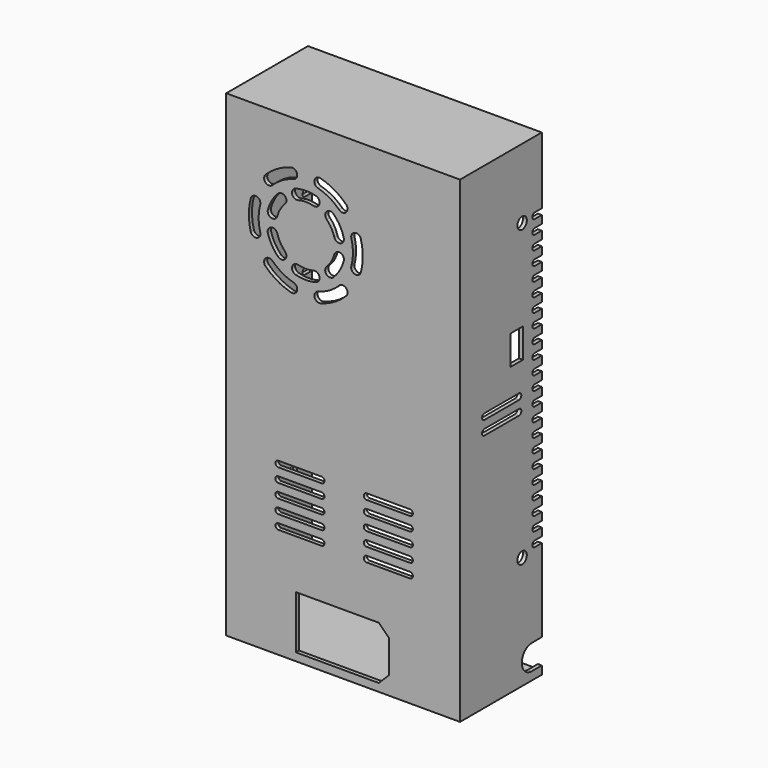
from build123d import *

# Parameters (mm, degrees)
F1_W      = 115
F1_H      = 241
F2_DEPTH  = 2
F3_R      = 3
F3_W      = 8
F3_H      = 15
F3_W_2    = 2
F3_H_2    = 241
F4_DEPTH  = 2
F5_W      = 2
F5_H      = 241
F5_R      = 3
F6_DEPTH  = 2
F7_W      = 115
F7_H      = 50
F8_DEPTH  = 2
F9_W      = 115
F9_H      = 50
F10_DEPTH = 2


with BuildPart() as f2:
    # F1 (on Front) → F2 (new body)
    with BuildSketch(Plane.XZ):
        Rectangle(F1_W, F1_H)
        Polygon((23.4, -111.25), (18.15, -116.5), (-24.1, -116.5), (-24.1, -89.5), (18.15, -89.5), (23.4, -94.75), align=None, mode=Mode.SUBTRACT)
        with BuildLine():
            Line((-11, -64.5), (-33, -64.5))
            ThreePointArc((-33, -64.5), (-34.5, -63), (-33, -61.5))
            Line((-33, -61.5), (-11, -61.5))
            ThreePointArc((-11, -61.5), (-9.5, -63), (-11, -64.5))
        make_face(mode=Mode.SUBTRACT)
        with BuildLine():
            Line((-11, -57.5), (-33, -57.5))
            ThreePointArc((-33, -57.5), (-34.5, -56), (-33, -54.5))
            Line((-33, -54.5), (-11, -54.5))
            ThreePointArc((-11, -54.5), (-9.5, -56), (-11, -57.5))
        make_face(mode=Mode.SUBTRACT)
        with BuildLine():
            Line((-11, -50.5), (-33, -50.5))
            ThreePointArc((-33, -50.5), (-34.5, -49), (-33, -47.5))
            Line((-33, -47.5), (-11, -47.5))
            ThreePointArc((-11, -47.5), (-9.5, -49), (-11, -50.5))
        make_face(mode=Mode.SUBTRACT)
        with BuildLine():
            Line((-11, -43.5), (-33, -43.5))
            ThreePointArc((-33, -43.5), (-34.5, -42), (-33, -40.5))
            Line((-33, -40.5), (-11, -40.5))
            ThreePointArc((-11, -40.5), (-9.5, -42), (-11, -43.5))
        make_face(mode=Mode.SUBTRACT)
        with BuildLine():
            Line((-11, -36.5), (-33, -36.5))
            ThreePointArc((-33, -36.5), (-34.5, -35), (-33, -33.5))
            Line((-33, -33.5), (-11, -33.5))
            ThreePointArc((-11, -33.5), (-9.5, -35), (-11, -36.5))
        make_face(mode=Mode.SUBTRACT)
        with BuildLine():
            Line((34, -64.5), (12, -64.5))
            ThreePointArc((12, -64.5), (10.5, -63), (12, -61.5))
            Line((12, -61.5), (34, -61.5))
            ThreePointArc((34, -61.5), (35.5, -63), (34, -64.5))
        make_face(mode=Mode.SUBTRACT)
        with BuildLine():
            Line((34, -57.5), (12, -57.5))
            ThreePointArc((12, -57.5), (10.5, -56), (12, -54.5))
            Line((12, -54.5), (34, -54.5))
            ThreePointArc((34, -54.5), (35.5, -56), (34, -57.5))
        make_face(mode=Mode.SUBTRACT)
        with BuildLine():
            Line((34, -50.5), (12, -50.5))
            ThreePointArc((12, -50.5), (10.5, -49), (12, -47.5))
            Line((12, -47.5), (34, -47.5))
            ThreePointArc((34, -47.5), (35.5, -49), (34, -50.5))
        make_face(mode=Mode.SUBTRACT)
        with BuildLine():
            Line((34, -43.5), (12, -43.5))
            ThreePointArc((12, -43.5), (10.5, -42), (12, -40.5))
            Line((12, -40.5), (34, -40.5))
            ThreePointArc((34, -40.5), (35.5, -42), (34, -43.5))
        make_face(mode=Mode.SUBTRACT)
        with BuildLine():
            Line((34, -36.5), (12, -36.5))
            ThreePointArc((12, -36.5), (10.5, -35), (12, -33.5))
            Line((12, -33.5), (34, -33.5))
            ThreePointArc((34, -33.5), (35.5, -35), (34, -36.5))
        make_face(mode=Mode.SUBTRACT)
        with BuildLine():
            ThreePointArc((-25.2116570825, 48.8177801691), (-23.4438901295, 45.7559179906), (-26.505752308, 43.9881510376))
            ThreePointArc((-26.505752308, 43.9881510376), (-33.5, 46.8852632903), (-39.5060966544, 51.4939033456))
            ThreePointArc((-39.5060966544, 51.4939033456), (-39.5060966544, 55.0294372515), (-35.9705627485, 55.0294372515))
            ThreePointArc((-35.9705627485, 55.0294372515), (-31, 51.2153903092), (-25.2116570825, 48.8177801691))
        make_face(mode=Mode.SUBTRACT)
        with BuildLine():
            ThreePointArc((-22.8822856765, 57.5111126057), (-19, 57), (-15.1177143235, 57.5111126057))
            ThreePointArc((-15.1177143235, 57.5111126057), (-12.055852145, 55.7433456527), (-13.8236190979, 52.6814834742))
            ThreePointArc((-13.8236190979, 52.6814834742), (-19, 52), (-24.1763809021, 52.6814834742))
            ThreePointArc((-24.1763809021, 52.6814834742), (-25.944147855, 55.7433456527), (-22.8822856765, 57.5111126057))
        make_face(mode=Mode.SUBTRACT)
        with BuildLine():
            ThreePointArc((-2.0294372515, 55.0294372515), (1.5060966544, 55.0294372515), (1.5060966544, 51.4939033456))
            ThreePointArc((1.5060966544, 51.4939033456), (-4.5, 46.8852632903), (-11.494247692, 43.9881510376))
            ThreePointArc((-11.494247692, 43.9881510376), (-14.5561098705, 45.7559179906), (-12.7883429175, 48.8177801691))
            ThreePointArc((-12.7883429175, 48.8177801691), (-7, 51.2153903092), (-2.0294372515, 55.0294372515))
        make_face(mode=Mode.SUBTRACT)
        with BuildLine():
            ThreePointArc((-42.1822198309, 65.7883429175), (-43.9499867839, 62.7264807391), (-47.0118489624, 64.494247692))
            ThreePointArc((-47.0118489624, 64.494247692), (-48, 72), (-47.0118489624, 79.505752308))
            ThreePointArc((-47.0118489624, 79.505752308), (-43.9499867839, 81.2735192609), (-42.1822198309, 78.2116570825))
            ThreePointArc((-42.1822198309, 78.2116570825), (-43, 72), (-42.1822198309, 65.7883429175))
        make_face(mode=Mode.SUBTRACT)
        with BuildLine():
            ThreePointArc((-33.4888873943, 68.1177143235), (-31.9903810568, 64.5), (-29.6066017178, 61.3933982822))
            ThreePointArc((-29.6066017178, 61.3933982822), (-29.6066017178, 57.8578643763), (-33.1421356237, 57.8578643763))
            ThreePointArc((-33.1421356237, 57.8578643763), (-36.3205080757, 62), (-38.3185165258, 66.8236190979))
            ThreePointArc((-38.3185165258, 66.8236190979), (-36.5507495728, 69.8854812764), (-33.4888873943, 68.1177143235))
        make_face(mode=Mode.SUBTRACT)
        with BuildLine():
            ThreePointArc((-29.6066017178, 82.6066017178), (-31.9903810568, 79.5), (-33.4888873943, 75.8822856765))
            ThreePointArc((-33.4888873943, 75.8822856765), (-36.5507495728, 74.1145187236), (-38.3185165258, 77.1763809021))
            ThreePointArc((-38.3185165258, 77.1763809021), (-36.3205080757, 82), (-33.1421356237, 86.1421356237))
            ThreePointArc((-33.1421356237, 86.1421356237), (-29.6066017178, 86.1421356237), (-29.6066017178, 82.6066017178))
        make_face(mode=Mode.SUBTRACT)
        with BuildLine():
            ThreePointArc((-35.9705627485, 88.9705627485), (-39.5060966544, 88.9705627485), (-39.5060966544, 92.5060966544))
            ThreePointArc((-39.5060966544, 92.5060966544), (-33.5, 97.1147367097), (-26.505752308, 100.0118489624))
            ThreePointArc((-26.505752308, 100.0118489624), (-23.4438901295, 98.2440820094), (-25.2116570825, 95.1822198309))
            ThreePointArc((-25.2116570825, 95.1822198309), (-31, 92.7846096908), (-35.9705627485, 88.9705627485))
        make_face(mode=Mode.SUBTRACT)
        with BuildLine():
            ThreePointArc((-15.1177143235, 86.4888873943), (-19, 87), (-22.8822856765, 86.4888873943))
            ThreePointArc((-22.8822856765, 86.4888873943), (-25.944147855, 88.2566543473), (-24.1763809021, 91.3185165258))
            ThreePointArc((-24.1763809021, 91.3185165258), (-19, 92), (-13.8236190979, 91.3185165258))
            ThreePointArc((-13.8236190979, 91.3185165258), (-12.055852145, 88.2566543473), (-15.1177143235, 86.4888873943))
        make_face(mode=Mode.SUBTRACT)
        with BuildLine():
            ThreePointArc((-8.3933982822, 61.3933982822), (-6.0096189432, 64.5), (-4.5111126057, 68.1177143235))
            ThreePointArc((-4.5111126057, 68.1177143235), (-1.4492504272, 69.8854812764), (0.3185165258, 66.8236190979))
            ThreePointArc((0.3185165258, 66.8236190979), (-1.6794919243, 62), (-4.8578643763, 57.8578643763))
            ThreePointArc((-4.8578643763, 57.8578643763), (-8.3933982822, 57.8578643763), (-8.3933982822, 61.3933982822))
        make_face(mode=Mode.SUBTRACT)
        with BuildLine():
            ThreePointArc((-4.5111126057, 75.8822856765), (-6.0096189432, 79.5), (-8.3933982822, 82.6066017178))
            ThreePointArc((-8.3933982822, 82.6066017178), (-8.3933982822, 86.1421356237), (-4.8578643763, 86.1421356237))
            ThreePointArc((-4.8578643763, 86.1421356237), (-1.6794919243, 82), (0.3185165258, 77.1763809021))
            ThreePointArc((0.3185165258, 77.1763809021), (-1.4492504272, 74.1145187236), (-4.5111126057, 75.8822856765))
        make_face(mode=Mode.SUBTRACT)
        with BuildLine():
            ThreePointArc((-2.0294372515, 88.9705627485), (-7, 92.7846096908), (-12.7883429175, 95.1822198309))
            ThreePointArc((-12.7883429175, 95.1822198309), (-14.5561098705, 98.2440820094), (-11.494247692, 100.0118489624))
            ThreePointArc((-11.494247692, 100.0118489624), (-4.5, 97.1147367097), (1.5060966544, 92.5060966544))
            ThreePointArc((1.5060966544, 92.5060966544), (1.5060966544, 88.9705627485), (-2.0294372515, 88.9705627485))
        make_face(mode=Mode.SUBTRACT)
        with BuildLine():
            ThreePointArc((4.1822198309, 78.2116570825), (5.9499867839, 81.2735192609), (9.0118489624, 79.505752308))
            ThreePointArc((9.0118489624, 79.505752308), (10, 72), (9.0118489624, 64.494247692))
            ThreePointArc((9.0118489624, 64.494247692), (5.9499867839, 62.7264807391), (4.1822198309, 65.7883429175))
            ThreePointArc((4.1822198309, 65.7883429175), (5, 72), (4.1822198309, 78.2116570825))
        make_face(mode=Mode.SUBTRACT)
    extrude(amount=F2_DEPTH)

    # F3 (on face) → F4 (join)
    with BuildSketch(Plane.YZ.offset(57.5)):
        with BuildLine():
            Line((50, 88.5), (50, 120.5))
            Line((50, 120.5), (0, 120.5))
            Line((0, 120.5), (0, -120.5))
            Line((0, -120.5), (50, -120.5))
            Line((50, -120.5), (50, -116.35))
            Line((50, -116.35), (43.65, -116.35))
            ThreePointArc((43.65, -116.35), (37.3, -110), (43.65, -103.65))
            Line((43.65, -103.65), (50, -103.65))
            Line((50, -103.65), (50, -61.5))
            Line((50, -61.5), (45.5, -61.5))
            ThreePointArc((45.5, -61.5), (44, -60), (45.5, -58.5))
            Line((45.5, -58.5), (50, -58.5))
            Line((50, -58.5), (50, -54.5))
            Line((50, -54.5), (45.5, -54.5))
            ThreePointArc((45.5, -54.5), (44, -53), (45.5, -51.5))
            Line((45.5, -51.5), (50, -51.5))
            Line((50, -51.5), (50, -47.5))
            Line((50, -47.5), (45.5, -47.5))
            ThreePointArc((45.5, -47.5), (44, -46), (45.5, -44.5))
            Line((45.5, -44.5), (50, -44.5))
            Line((50, -44.5), (50, -40.5))
            Line((50, -40.5), (45.5, -40.5))
            ThreePointArc((45.5, -40.5), (44, -39), (45.5, -37.5))
            Line((45.5, -37.5), (50, -37.5))
            Line((50, -37.5), (50, -33.5))
            Line((50, -33.5), (45.5, -33.5))
            ThreePointArc((45.5, -33.5), (44, -32), (45.5, -30.5))
            Line((45.5, -30.5), (50, -30.5))
            Line((50, -30.5), (50, -26.5))
            Line((50, -26.5), (45.5, -26.5))
            ThreePointArc((45.5, -26.5), (44, -25), (45.5, -23.5))
            Line((45.5, -23.5), (50, -23.5))
            Line((50, -23.5), (50, -19.5))
            Line((50, -19.5), (45.5, -19.5))
            ThreePointArc((45.5, -19.5), (44, -18), (45.5, -16.5))
            Line((45.5, -16.5), (50, -16.5))
            Line((50, -16.5), (50, -12.5))
            Line((50, -12.5), (45.5, -12.5))
            ThreePointArc((45.5, -12.5), (44, -11), (45.5, -9.5))
            Line((45.5, -9.5), (50, -9.5))
            Line((50, -9.5), (50, -5.5))
            Line((50, -5.5), (45.5, -5.5))
            ThreePointArc((45.5, -5.5), (44, -4), (45.5, -2.5))
            Line((45.5, -2.5), (50, -2.5))
            Line((50, -2.5), (50, 1.5))
            Line((50, 1.5), (45.5, 1.5))
            ThreePointArc((45.5, 1.5), (44, 3), (45.5, 4.5))
            Line((45.5, 4.5), (50, 4.5))
            Line((50, 4.5), (50, 8.5))
            Line((50, 8.5), (45.5, 8.5))
            ThreePointArc((45.5, 8.5), (44, 10), (45.5, 11.5))
            Line((45.5, 11.5), (50, 11.5))
            Line((50, 11.5), (50, 15.5))
            Line((50, 15.5), (45.5, 15.5))
            ThreePointArc((45.5, 15.5), (44, 17), (45.5, 18.5))
            Line((45.5, 18.5), (50, 18.5))
            Line((50, 18.5), (50, 22.5))
            Line((50, 22.5), (45.5, 22.5))
            ThreePointArc((45.5, 22.5), (44, 24), (45.5, 25.5))
            Line((45.5, 25.5), (50, 25.5))
            Line((50, 25.5), (50, 29.5))
            Line((50, 29.5), (45.5, 29.5))
            ThreePointArc((45.5, 29.5), (44, 31), (45.5, 32.5))
            Line((45.5, 32.5), (50, 32.5))
            Line((50, 32.5), (50, 36.5))
            Line((50, 36.5), (45.5, 36.5))
            ThreePointArc((45.5, 36.5), (44, 38), (45.5, 39.5))
            Line((45.5, 39.5), (50, 39.5))
            Line((50, 39.5), (50, 43.5))
            Line((50, 43.5), (45.5, 43.5))
            ThreePointArc((45.5, 43.5), (44, 45), (45.5, 46.5))
            Line((45.5, 46.5), (50, 46.5))
            Line((50, 46.5), (50, 50.5))
            Line((50, 50.5), (45.5, 50.5))
            ThreePointArc((45.5, 50.5), (44, 52), (45.5, 53.5))
            Line((45.5, 53.5), (50, 53.5))
            Line((50, 53.5), (50, 57.5))
            Line((50, 57.5), (45.5, 57.5))
            ThreePointArc((45.5, 57.5), (44, 59), (45.5, 60.5))
            Line((45.5, 60.5), (50, 60.5))
            Line((50, 60.5), (50, 64.5))
            Line((50, 64.5), (45.5, 64.5))
            ThreePointArc((45.5, 64.5), (44, 66), (45.5, 67.5))
            Line((45.5, 67.5), (50, 67.5))
            Line((50, 67.5), (50, 71.5))
            Line((50, 71.5), (45.5, 71.5))
            ThreePointArc((45.5, 71.5), (44, 73), (45.5, 74.5))
            Line((45.5, 74.5), (50, 74.5))
            Line((50, 74.5), (50, 78.5))
            Line((50, 78.5), (45.5, 78.5))
            ThreePointArc((45.5, 78.5), (44, 80), (45.5, 81.5))
            Line((45.5, 81.5), (50, 81.5))
            Line((50, 81.5), (50, 85.5))
            Line((50, 85.5), (45.5, 85.5))
            ThreePointArc((45.5, 85.5), (44, 87), (45.5, 88.5))
            Line((45.5, 88.5), (50, 88.5))
        make_face()
        with Locations((37.5, -63)):
            Circle(F3_R, mode=Mode.SUBTRACT)
        with BuildLine():
            ThreePointArc((13.5, 1.5), (12, 3), (13.5, 4.5))
            Line((13.5, 4.5), (35.5, 4.5))
            ThreePointArc((35.5, 4.5), (37, 3), (35.5, 1.5))
            Line((35.5, 1.5), (13.5, 1.5))
        make_face(mode=Mode.SUBTRACT)
        with BuildLine():
            Line((35.5, 8.5), (13.5, 8.5))
            ThreePointArc((13.5, 8.5), (12, 10), (13.5, 11.5))
            Line((13.5, 11.5), (35.5, 11.5))
            ThreePointArc((35.5, 11.5), (37, 10), (35.5, 8.5))
        make_face(mode=Mode.SUBTRACT)
        with Locations((34, 33)):
            Rectangle(F3_W, F3_H, mode=Mode.SUBTRACT)
        with Locations((37.5, 87)):
            Circle(F3_R, mode=Mode.SUBTRACT)
        with Locations((-1, 0)):
            Rectangle(F3_W_2, F3_H_2)
    extrude(amount=F4_DEPTH)

    # F5 (on face) → F6 (join)
    with BuildSketch(Plane(origin=(-57.5, 0, 0), x_dir=(0, -1, 0), z_dir=(-1, 0, 0))):
        with Locations((1, 0)):
            Rectangle(F5_W, F5_H)
        with BuildLine():
            Line((0, -120.5), (0, 120.5))
            Line((0, 120.5), (-50, 120.5))
            Line((-50, 120.5), (-50, 88.5))
            Line((-50, 88.5), (-45.5, 88.5))
            ThreePointArc((-45.5, 88.5), (-44, 87), (-45.5, 85.5))
            Line((-45.5, 85.5), (-50, 85.5))
            Line((-50, 85.5), (-50, 81.5))
            Line((-50, 81.5), (-45.5, 81.5))
            ThreePointArc((-45.5, 81.5), (-44, 80), (-45.5, 78.5))
            Line((-45.5, 78.5), (-50, 78.5))
            Line((-50, 78.5), (-50, 74.5))
            Line((-50, 74.5), (-45.5, 74.5))
            ThreePointArc((-45.5, 74.5), (-44, 73), (-45.5, 71.5))
            Line((-45.5, 71.5), (-50, 71.5))
            Line((-50, 71.5), (-50, 67.5))
            Line((-50, 67.5), (-45.5, 67.5))
            ThreePointArc((-45.5, 67.5), (-44, 66), (-45.5, 64.5))
            Line((-45.5, 64.5), (-50, 64.5))
            Line((-50, 64.5), (-50, 60.5))
            Line((-50, 60.5), (-45.5, 60.5))
            ThreePointArc((-45.5, 60.5), (-44, 59), (-45.5, 57.5))
            Line((-45.5, 57.5), (-50, 57.5))
            Line((-50, 57.5), (-50, 53.5))
            Line((-50, 53.5), (-45.5, 53.5))
            ThreePointArc((-45.5, 53.5), (-44, 52), (-45.5, 50.5))
            Line((-45.5, 50.5), (-50, 50.5))
            Line((-50, 50.5), (-50, 46.5))
            Line((-50, 46.5), (-45.5, 46.5))
            ThreePointArc((-45.5, 46.5), (-44, 45), (-45.5, 43.5))
            Line((-45.5, 43.5), (-50, 43.5))
            Line((-50, 43.5), (-50, 39.5))
            Line((-50, 39.5), (-45.5, 39.5))
            ThreePointArc((-45.5, 39.5), (-44, 38), (-45.5, 36.5))
            Line((-45.5, 36.5), (-50, 36.5))
            Line((-50, 36.5), (-50, 32.5))
            Line((-50, 32.5), (-45.5, 32.5))
            ThreePointArc((-45.5, 32.5), (-44, 31), (-45.5, 29.5))
            Line((-45.5, 29.5), (-50, 29.5))
            Line((-50, 29.5), (-50, 25.5))
            Line((-50, 25.5), (-45.5, 25.5))
            ThreePointArc((-45.5, 25.5), (-44, 24), (-45.5, 22.5))
            Line((-45.5, 22.5), (-50, 22.5))
            Line((-50, 22.5), (-50, 18.5))
            Line((-50, 18.5), (-45.5, 18.5))
            ThreePointArc((-45.5, 18.5), (-44, 17), (-45.5, 15.5))
            Line((-45.5, 15.5), (-50, 15.5))
            Line((-50, 15.5), (-50, 11.5))
            Line((-50, 11.5), (-45.5, 11.5))
            ThreePointArc((-45.5, 11.5), (-44, 10), (-45.5, 8.5))
            Line((-45.5, 8.5), (-50, 8.5))
            Line((-50, 8.5), (-50, 4.5))
            Line((-50, 4.5), (-45.5, 4.5))
            ThreePointArc((-45.5, 4.5), (-44, 3), (-45.5, 1.5))
            Line((-45.5, 1.5), (-50, 1.5))
            Line((-50, 1.5), (-50, -2.5))
            Line((-50, -2.5), (-45.5, -2.5))
            ThreePointArc((-45.5, -2.5), (-44, -4), (-45.5, -5.5))
            Line((-45.5, -5.5), (-50, -5.5))
            Line((-50, -5.5), (-50, -9.5))
            Line((-50, -9.5), (-45.5, -9.5))
            ThreePointArc((-45.5, -9.5), (-44, -11), (-45.5, -12.5))
            Line((-45.5, -12.5), (-50, -12.5))
            Line((-50, -12.5), (-50, -16.5))
            Line((-50, -16.5), (-45.5, -16.5))
            ThreePointArc((-45.5, -16.5), (-44, -18), (-45.5, -19.5))
            Line((-45.5, -19.5), (-50, -19.5))
            Line((-50, -19.5), (-50, -23.5))
            Line((-50, -23.5), (-45.5, -23.5))
            ThreePointArc((-45.5, -23.5), (-44, -25), (-45.5, -26.5))
            Line((-45.5, -26.5), (-50, -26.5))
            Line((-50, -26.5), (-50, -30.5))
            Line((-50, -30.5), (-45.5, -30.5))
            ThreePointArc((-45.5, -30.5), (-44, -32), (-45.5, -33.5))
            Line((-45.5, -33.5), (-50, -33.5))
            Line((-50, -33.5), (-50, -37.5))
            Line((-50, -37.5), (-45.5, -37.5))
            ThreePointArc((-45.5, -37.5), (-44, -39), (-45.5, -40.5))
            Line((-45.5, -40.5), (-50, -40.5))
            Line((-50, -40.5), (-50, -44.5))
            Line((-50, -44.5), (-45.5, -44.5))
            ThreePointArc((-45.5, -44.5), (-44, -46), (-45.5, -47.5))
            Line((-45.5, -47.5), (-50, -47.5))
            Line((-50, -47.5), (-50, -51.5))
            Line((-50, -51.5), (-45.5, -51.5))
            ThreePointArc((-45.5, -51.5), (-44, -53), (-45.5, -54.5))
            Line((-45.5, -54.5), (-50, -54.5))
            Line((-50, -54.5), (-50, -58.5))
            Line((-50, -58.5), (-45.5, -58.5))
            ThreePointArc((-45.5, -58.5), (-44, -60), (-45.5, -61.5))
            Line((-45.5, -61.5), (-50, -61.5))
            Line((-50, -61.5), (-50, -103.65))
            Line((-50, -103.65), (-43.65, -103.65))
            ThreePointArc((-43.65, -103.65), (-37.3, -110), (-43.65, -116.35))
            Line((-43.65, -116.35), (-50, -116.35))
            Line((-50, -116.35), (-50, -120.5))
            Line((-50, -120.5), (0, -120.5))
        make_face()
        with Locations((-37.5, -63)):
            Circle(F5_R, mode=Mode.SUBTRACT)
        with Locations((-37.5, 87)):
            Circle(F5_R, mode=Mode.SUBTRACT)
        with BuildLine():
            Line((0, -120.5), (0, 120.5))
            Line((0, 120.5), (-50, 120.5))
            Line((-50, 120.5), (-50, 88.5))
            Line((-50, 88.5), (-45.5, 88.5))
            ThreePointArc((-45.5, 88.5), (-44, 87), (-45.5, 85.5))
            Line((-45.5, 85.5), (-50, 85.5))
            Line((-50, 85.5), (-50, 81.5))
            Line((-50, 81.5), (-45.5, 81.5))
            ThreePointArc((-45.5, 81.5), (-44, 80), (-45.5, 78.5))
            Line((-45.5, 78.5), (-50, 78.5))
            Line((-50, 78.5), (-50, 74.5))
            Line((-50, 74.5), (-45.5, 74.5))
            ThreePointArc((-45.5, 74.5), (-44, 73), (-45.5, 71.5))
            Line((-45.5, 71.5), (-50, 71.5))
            Line((-50, 71.5), (-50, 67.5))
            Line((-50, 67.5), (-45.5, 67.5))
            ThreePointArc((-45.5, 67.5), (-44, 66), (-45.5, 64.5))
            Line((-45.5, 64.5), (-50, 64.5))
            Line((-50, 64.5), (-50, 60.5))
            Line((-50, 60.5), (-45.5, 60.5))
            ThreePointArc((-45.5, 60.5), (-44, 59), (-45.5, 57.5))
            Line((-45.5, 57.5), (-50, 57.5))
            Line((-50, 57.5), (-50, 53.5))
            Line((-50, 53.5), (-45.5, 53.5))
            ThreePointArc((-45.5, 53.5), (-44, 52), (-45.5, 50.5))
            Line((-45.5, 50.5), (-50, 50.5))
            Line((-50, 50.5), (-50, 46.5))
            Line((-50, 46.5), (-45.5, 46.5))
            ThreePointArc((-45.5, 46.5), (-44, 45), (-45.5, 43.5))
            Line((-45.5, 43.5), (-50, 43.5))
            Line((-50, 43.5), (-50, 39.5))
            Line((-50, 39.5), (-45.5, 39.5))
            ThreePointArc((-45.5, 39.5), (-44, 38), (-45.5, 36.5))
            Line((-45.5, 36.5), (-50, 36.5))
            Line((-50, 36.5), (-50, 32.5))
            Line((-50, 32.5), (-45.5, 32.5))
            ThreePointArc((-45.5, 32.5), (-44, 31), (-45.5, 29.5))
            Line((-45.5, 29.5), (-50, 29.5))
            Line((-50, 29.5), (-50, 25.5))
            Line((-50, 25.5), (-45.5, 25.5))
            ThreePointArc((-45.5, 25.5), (-44, 24), (-45.5, 22.5))
            Line((-45.5, 22.5), (-50, 22.5))
            Line((-50, 22.5), (-50, 18.5))
            Line((-50, 18.5), (-45.5, 18.5))
            ThreePointArc((-45.5, 18.5), (-44, 17), (-45.5, 15.5))
            Line((-45.5, 15.5), (-50, 15.5))
            Line((-50, 15.5), (-50, 11.5))
            Line((-50, 11.5), (-45.5, 11.5))
            ThreePointArc((-45.5, 11.5), (-44, 10), (-45.5, 8.5))
            Line((-45.5, 8.5), (-50, 8.5))
            Line((-50, 8.5), (-50, 4.5))
            Line((-50, 4.5), (-45.5, 4.5))
            ThreePointArc((-45.5, 4.5), (-44, 3), (-45.5, 1.5))
            Line((-45.5, 1.5), (-50, 1.5))
            Line((-50, 1.5), (-50, -2.5))
            Line((-50, -2.5), (-45.5, -2.5))
            ThreePointArc((-45.5, -2.5), (-44, -4), (-45.5, -5.5))
            Line((-45.5, -5.5), (-50, -5.5))
            Line((-50, -5.5), (-50, -9.5))
            Line((-50, -9.5), (-45.5, -9.5))
            ThreePointArc((-45.5, -9.5), (-44, -11), (-45.5, -12.5))
            Line((-45.5, -12.5), (-50, -12.5))
            Line((-50, -12.5), (-50, -16.5))
            Line((-50, -16.5), (-45.5, -16.5))
            ThreePointArc((-45.5, -16.5), (-44, -18), (-45.5, -19.5))
            Line((-45.5, -19.5), (-50, -19.5))
            Line((-50, -19.5), (-50, -23.5))
            Line((-50, -23.5), (-45.5, -23.5))
            ThreePointArc((-45.5, -23.5), (-44, -25), (-45.5, -26.5))
            Line((-45.5, -26.5), (-50, -26.5))
            Line((-50, -26.5), (-50, -30.5))
            Line((-50, -30.5), (-45.5, -30.5))
            ThreePointArc((-45.5, -30.5), (-44, -32), (-45.5, -33.5))
            Line((-45.5, -33.5), (-50, -33.5))
            Line((-50, -33.5), (-50, -37.5))
            Line((-50, -37.5), (-45.5, -37.5))
            ThreePointArc((-45.5, -37.5), (-44, -39), (-45.5, -40.5))
            Line((-45.5, -40.5), (-50, -40.5))
            Line((-50, -40.5), (-50, -44.5))
            Line((-50, -44.5), (-45.5, -44.5))
            ThreePointArc((-45.5, -44.5), (-44, -46), (-45.5, -47.5))
            Line((-45.5, -47.5), (-50, -47.5))
            Line((-50, -47.5), (-50, -51.5))
            Line((-50, -51.5), (-45.5, -51.5))
            ThreePointArc((-45.5, -51.5), (-44, -53), (-45.5, -54.5))
            Line((-45.5, -54.5), (-50, -54.5))
            Line((-50, -54.5), (-50, -58.5))
            Line((-50, -58.5), (-45.5, -58.5))
            ThreePointArc((-45.5, -58.5), (-44, -60), (-45.5, -61.5))
            Line((-45.5, -61.5), (-50, -61.5))
            Line((-50, -61.5), (-50, -103.65))
            Line((-50, -103.65), (-43.65, -103.65))
            ThreePointArc((-43.65, -103.65), (-37.3, -110), (-43.65, -116.35))
            Line((-43.65, -116.35), (-50, -116.35))
            Line((-50, -116.35), (-50, -120.5))
            Line((-50, -120.5), (0, -120.5))
        make_face()
        with Locations((-37.5, -63)):
            Circle(F5_R, mode=Mode.SUBTRACT)
        with Locations((-37.5, 87)):
            Circle(F5_R, mode=Mode.SUBTRACT)
    extrude(amount=F6_DEPTH)

    # F7 (on face) → F8 (join)
    with BuildSketch(Plane.XY.offset(120.5)):
        with Locations((0, 25)):
            Rectangle(F7_W, F7_H)
        Polygon((-59.5, -2), (59.5, -2), (59.5, 50), (57.5, 50), (57.5, 0), (-57.5, 0), (-57.5, 50), (-59.5, 50), align=None)
    extrude(amount=F8_DEPTH)

    # F9 (on face) → F10 (join)
    with BuildSketch(Plane(origin=(0, 0, -120.5), x_dir=(1, 0, 0), z_dir=(0, 0, -1))):
        with Locations((0, -25)):
            Rectangle(F9_W, F9_H)
    extrude(amount=-F10_DEPTH)


solid = f2.part
